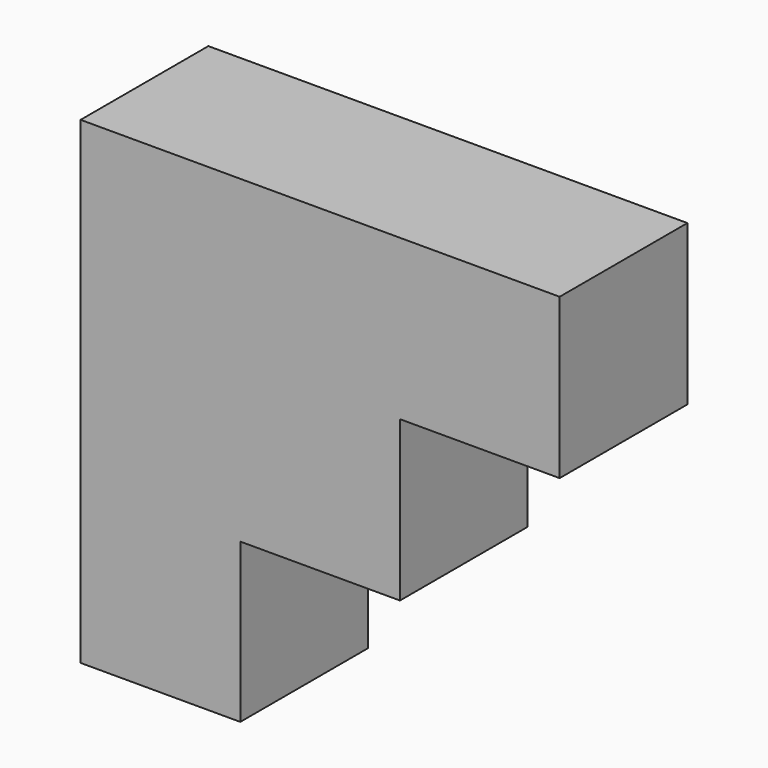
from build123d import *

# Parameters (mm, degrees)
F0_W     = 19.05
F0_H     = 19.05
F0_H_2   = 18.942624
F1_DEPTH = 9.525


with BuildPart() as f1:
    # F0 (on Front) → F1 (new body, symmetric)
    with BuildSketch(Plane.XZ):
        Polygon((-9.525, -9.525), (9.525, -9.525), (9.525, 9.525), (-9.525, 9.525), (-9.525, -9.417624), align=None)
        Polygon((-9.525, -28.467624), (-9.525, -9.525), (-9.525, -9.417624), (-28.575, -9.417624), (-28.575, -28.467624), align=None)
        with Locations((0, 19.05)):
            Rectangle(F0_W, F0_H)
        with Locations((19.05, 19.05)):
            Rectangle(F0_W, F0_H)
        with Locations((-19.05, 0.053688)):
            Rectangle(F0_W, F0_H_2)
        with Locations((-19.05, 19.05)):
            Rectangle(F0_W, F0_H)
    extrude(amount=F1_DEPTH, both=True)


solid = f1.part
